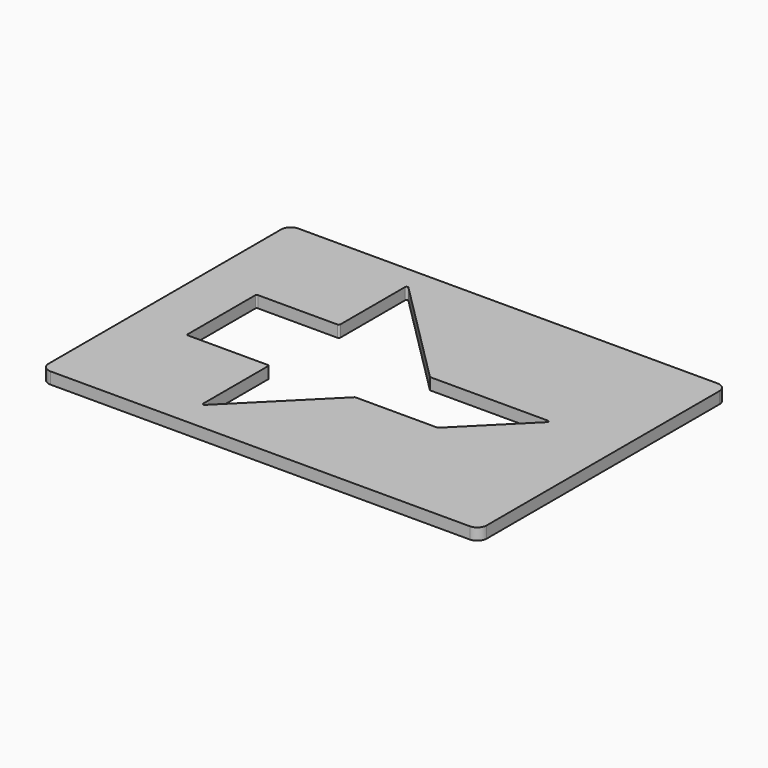
from build123d import *

# Parameters (mm, degrees)
F1_DEPTH = 6.35
F3_DEPTH = 6.351
F5_DEPTH = 6.351


with BuildPart() as f1:
    # F0 (on Top) → F1 (new body)
    with BuildSketch(Plane.XY):
        with BuildLine():
            Line((113.9825, 84.1375), (-113.9825, 84.1375))
            ThreePointArc((-113.9825, 84.1375), (-117.574602, 82.649602), (-119.0625, 79.0575))
            Line((-119.0625, 79.0575), (-119.0625, -79.0575))
            ThreePointArc((-119.0625, -79.0575), (-117.574602, -82.649602), (-113.9825, -84.1375))
            Line((-113.9825, -84.1375), (113.9825, -84.1375))
            ThreePointArc((113.9825, -84.1375), (117.574602, -82.649602), (119.0625, -79.0575))
            Line((119.0625, -79.0575), (119.0625, 79.0575))
            ThreePointArc((119.0625, 79.0575), (117.574602, 82.649602), (113.9825, 84.1375))
        make_face()
    extrude(amount=F1_DEPTH)

    # F2 (on face) → F3 (cut, through all)
    with BuildSketch(Plane.XY.offset(6.35)):
        Polygon((-88.5825, 24.343994), (-88.5825, -20.614006), (-43.6245, -20.614006), (-43.6245, -65.538781), (1.276781, -20.6375), (46.234781, -20.6375), (78.024887, 11.152607), (14.524887, 11.152607), (-43.6245, 69.301994), (-43.6245, 24.343994), align=None)
    extrude(amount=-F3_DEPTH, mode=Mode.SUBTRACT)

    # F4 (on face) → F5 (cut, through all)
    with BuildSketch(Plane.XY.offset(6.35)):
        with BuildLine():
            ThreePointArc((79.746763, 11.078431), (79.917449, 11.936532), (79.189987, 12.422607))
            Line((79.189987, 12.422607), (15.37709, 12.422607))
            ThreePointArc((15.37709, 12.422607), (15.075765, 12.482544), (14.820314, 12.653231))
            Line((14.820314, 12.653231), (-43.550324, 71.023869))
            ThreePointArc((-43.550324, 71.023869), (-44.408425, 71.194556), (-44.8945, 70.467093))
            Line((-44.8945, 70.467093), (-44.8945, 26.401394))
            ThreePointArc((-44.8945, 26.401394), (-45.125124, 25.844618), (-45.6819, 25.613994))
            Line((-45.6819, 25.613994), (-89.0651, 25.613994))
            ThreePointArc((-89.0651, 25.613994), (-89.621876, 25.38337), (-89.8525, 24.826594))
            Line((-89.8525, 24.826594), (-89.8525, -21.096606))
            ThreePointArc((-89.8525, -21.096606), (-89.621876, -21.653382), (-89.0651, -21.884006))
            Line((-89.0651, -21.884006), (-45.6819, -21.884006))
            ThreePointArc((-45.6819, -21.884006), (-45.125124, -22.11463), (-44.8945, -22.671406))
            Line((-44.8945, -22.671406), (-44.8945, -66.70388))
            ThreePointArc((-44.8945, -66.70388), (-44.408425, -67.431343), (-43.550324, -67.260656))
            Line((-43.550324, -67.260656), (1.572208, -22.138124))
            ThreePointArc((1.572208, -22.138124), (1.827659, -21.967437), (2.128984, -21.9075))
            Line((2.128984, -21.9075), (46.43468, -21.9075))
            ThreePointArc((46.43468, -21.9075), (46.736005, -21.847563), (46.991456, -21.676876))
            Line((46.991456, -21.676876), (79.746763, 11.078431))
        make_face()
    extrude(amount=-F5_DEPTH, mode=Mode.SUBTRACT)


solid = f1.part
